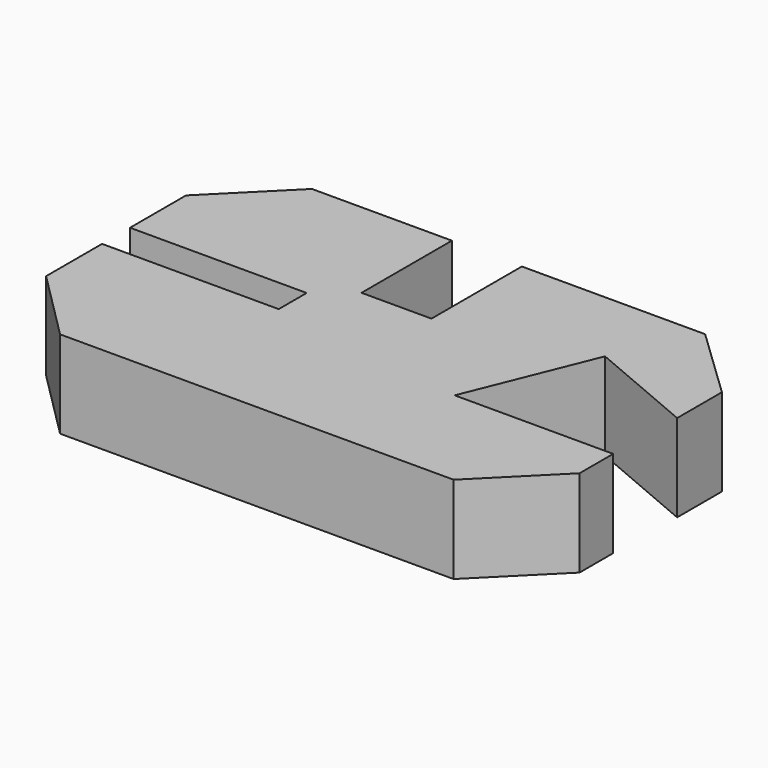
from build123d import *

# Parameters (mm, degrees)
F1_DEPTH = 25


with BuildPart() as f1:
    # F0 (on Top) → F1 (new body)
    with BuildSketch(Plane.XY):
        Polygon((-103.705302, -51.755551), (-83.69418, -71.766673), (28.80582, -71.766673), (48.816942, -51.755551), (48.816942, -39.755551), (3.516942, -39.755551), (17.939296, -4.058973), (49.153934, -17.308801), (49.153934, -1.308801), (28.70582, 18.255571), (-23.69418, 18.255571), (-23.69418, -14.044429), (-43.69418, -14.044429), (-43.69418, 18.255571), (-83.69418, 18.255571), (-103.705302, -1.755551), (-103.705302, -21.755551), (-53.205302, -21.755551), (-53.205302, -31.755551), (-103.705302, -31.755551), align=None)
    extrude(amount=F1_DEPTH)


solid = f1.part
